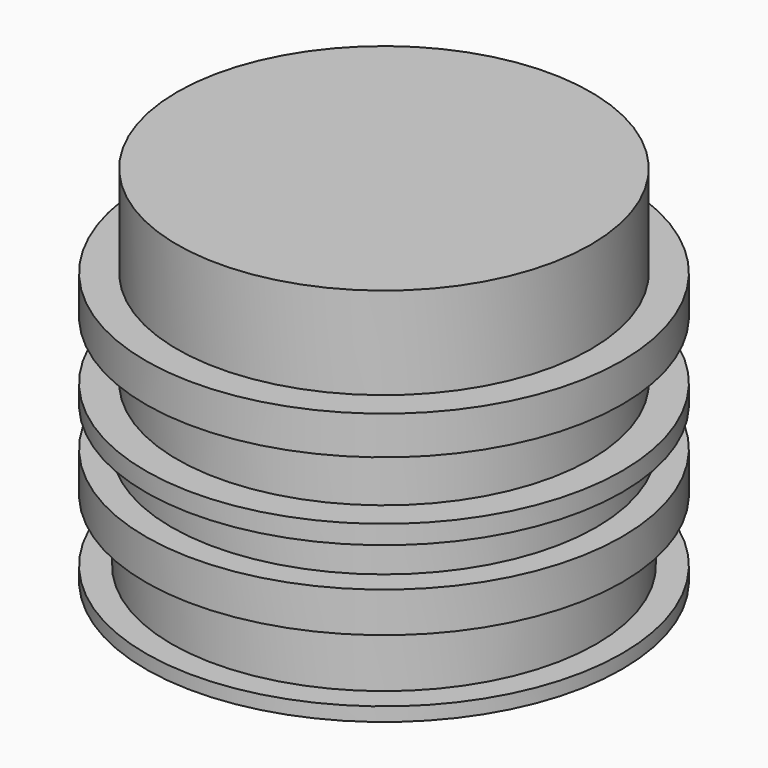
from build123d import *

# Parameters (mm, degrees)
F0_R     = 19
F1_DEPTH = 29
F2_W     = 13.055
F2_H     = 5
F2_H_2   = 3.12
F2_W_2   = 13.499867
F2_H_3   = 4.67
F2_W_3   = 13.901473
F2_H_4   = 10


with BuildPart() as f1:
    # F0 (on Top) → F1 (new body)
    with BuildSketch(Plane.XY):
        Circle(F0_R)
    extrude(amount=F1_DEPTH)

    # F2 (on Front) → F3 (revolve, cut)
    with BuildSketch(Plane.XZ):
        with Locations((23.4725, 3.6)):
            Rectangle(F2_W, F2_H)
        with Locations((23.4725, 10.86)):
            Rectangle(F2_W, F2_H_2)
        with Locations((23.250066, 16.255)):
            Rectangle(F2_W_2, F2_H_3)
        with Locations((23.450869, 26.65892)):
            Rectangle(F2_W_3, F2_H_4)
    revolve(axis=Axis((0, 0, 8.831585), (0, 0, -1)), mode=Mode.SUBTRACT)


solid = f1.part
